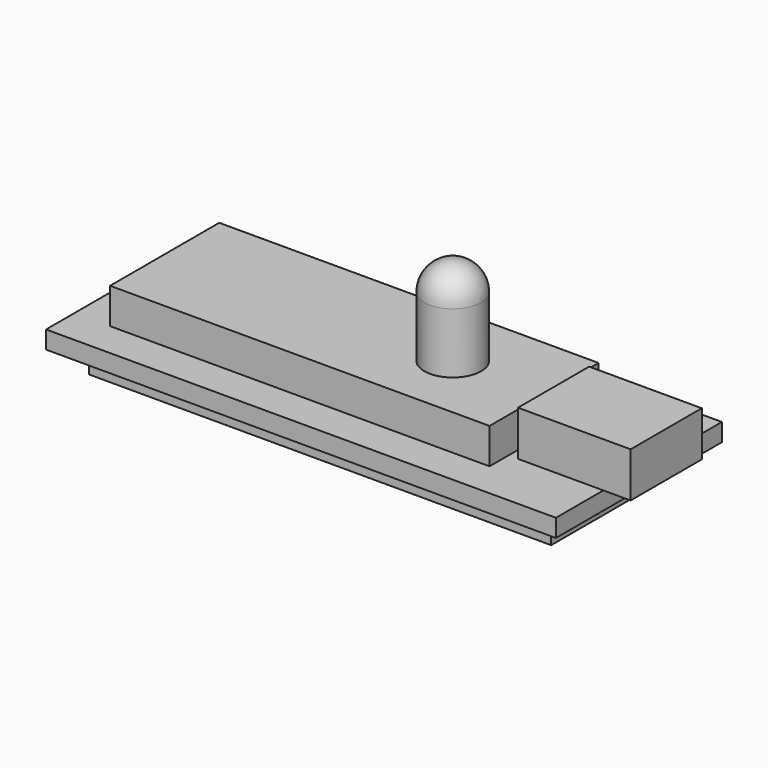
from build123d import *

# Parameters (mm, degrees)
F0_W     = 43
F0_H     = 17.5
F1_DEPTH = 1.5
F2_W     = 9.5
F2_H     = 7.5
F3_DEPTH = 3.8
F4_W     = 32
F4_H     = 11.5
F5_DEPTH = 3
F6_W     = 39
F6_H     = 13.5
F7_DEPTH = 2
F8_R     = 2.4
F9_DEPTH = 7.5
F10_R    = 2.4


with BuildPart() as f1:
    # F0 (on Top) → F1 (new body)
    with BuildSketch(Plane.XY):
        Rectangle(F0_W, F0_H)
    extrude(amount=F1_DEPTH)

    # F2 (on face) → F3 (join)
    with BuildSketch(Plane.XY.offset(1.5)):
        with Locations((19.05, 0)):
            Rectangle(F2_W, F2_H)
    extrude(amount=F3_DEPTH)

    # F4 (on face) → F5 (join)
    with BuildSketch(Plane.XY.offset(1.5)):
        with Locations((-2.5, 0)):
            Rectangle(F4_W, F4_H)
    extrude(amount=F5_DEPTH)

    # F6 (on face) → F7 (join)
    with BuildSketch(Plane(origin=(0, 0, 0), x_dir=(1, 0, 0), z_dir=(0, 0, -1))):
        Rectangle(F6_W, F6_H)
    extrude(amount=F7_DEPTH)

    # F8 (on face) → F9 (join)
    with BuildSketch(Plane.XY.offset(4.5)):
        with Locations((5.8, 0)):
            Circle(F8_R)
    extrude(amount=F9_DEPTH)

    # F10
    f10_edges = [f1.edges().sort_by_distance(p)[0] for p in [
        (3.4, 0, 12),
    ]]
    fillet(f10_edges, radius=F10_R)


solid = f1.part
